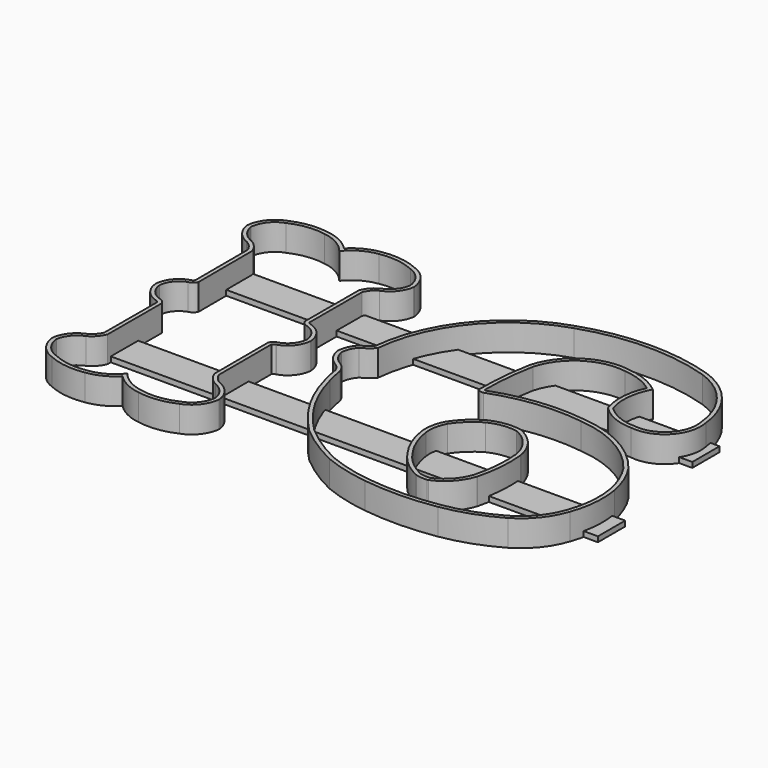
from build123d import *

# Parameters (mm, degrees)
EXTRUDE_DEPTH = 10
BOX_W         = 183
BOX_H         = 13
BOX_DEPTH     = 2
BOX001_W      = 191
BOX001_H      = 13
BOX001_DEPTH  = 2


with BuildPart() as extrude_body:
    # Offset2D → Extrude (new body)
    with BuildSketch(Plane(origin=(-64.42601, 0, 0), x_dir=(0, 1, 0), z_dir=(0, 0, 1))):
        with BuildLine():
            ThreePointArc((34.161662, -21.830487), (36.403056, -23.231111), (38.032569, -25.312044))
            ThreePointArc((38.032569, -25.312044), (41.224227, -29.629801), (46.127096, -31.81877))
            ThreePointArc((46.127096, -31.81877), (46.323021, -31.83785), (46.519757, -31.831109))
            ThreePointArc((46.519757, -31.831109), (52.421393, -29.463028), (56.146422, -24.309266))
            ThreePointArc((56.146422, -24.309266), (58.119453, -17.405653), (57.934261, -10.22802))
            ThreePointArc((57.934261, -10.22802), (56.22852, -4.678993), (52.792202, 0))
            ThreePointArc((52.792202, 0), (56.22852, 4.678993), (57.934261, 10.22802))
            ThreePointArc((57.934261, 10.22802), (58.119453, 17.405653), (56.146422, 24.309266))
            ThreePointArc((56.146422, 24.309266), (52.421393, 29.463028), (46.519757, 31.831109))
            ThreePointArc((46.519757, 31.831109), (46.323021, 31.83785), (46.127096, 31.81877))
            ThreePointArc((46.127096, 31.81877), (41.224227, 29.629801), (38.032569, 25.312044))
            ThreePointArc((38.032569, 25.312044), (36.403056, 23.231111), (34.161662, 21.830487))
            Line((34.161662, 21.830487), (9.106717, 21.770834))
            ThreePointArc((9.106717, 21.770834), (8.585119, 22.296269), (8.302434, 22.980546))
            ThreePointArc((8.302434, 22.980546), (8.281138, 23.072257), (8.254131, 23.162452))
            ThreePointArc((8.254131, 23.162452), (5.150566, 27.581732), (0.132982, 29.578231))
            ThreePointArc((0.132982, 29.578231), (0, 29.584138), (-0.132982, 29.578231))
            ThreePointArc((-0.132982, 29.578231), (-5.150566, 27.581732), (-8.254131, 23.162452))
            ThreePointArc((-8.254131, 23.162452), (-8.281138, 23.072257), (-8.302434, 22.980546))
            ThreePointArc((-8.302434, 22.980546), (-8.585119, 22.296269), (-9.106717, 21.770834))
            Line((-9.106717, 21.770834), (-34.161662, 21.830487))
            ThreePointArc((-34.161662, 21.830487), (-36.403056, 23.231111), (-38.032569, 25.312044))
            ThreePointArc((-38.032569, 25.312044), (-41.224227, 29.629801), (-46.127096, 31.81877))
            ThreePointArc((-46.127096, 31.81877), (-46.323021, 31.83785), (-46.519757, 31.831109))
            ThreePointArc((-46.519757, 31.831109), (-52.421393, 29.463028), (-56.146422, 24.309266))
            ThreePointArc((-56.146422, 24.309266), (-58.119453, 17.405653), (-57.934261, 10.22802))
            ThreePointArc((-57.934261, 10.22802), (-56.22852, 4.678993), (-52.792202, 0))
            ThreePointArc((-52.792202, 0), (-56.22852, -4.678993), (-57.934261, -10.22802))
            ThreePointArc((-57.934261, -10.22802), (-58.119453, -17.405653), (-56.146422, -24.309266))
            ThreePointArc((-56.146422, -24.309266), (-52.421393, -29.463028), (-46.519757, -31.831109))
            ThreePointArc((-46.519757, -31.831109), (-46.323021, -31.83785), (-46.127096, -31.81877))
            ThreePointArc((-46.127096, -31.81877), (-41.224227, -29.629801), (-38.032569, -25.312044))
            ThreePointArc((-38.032569, -25.312044), (-36.403056, -23.231111), (-34.161662, -21.830487))
            Line((-34.161662, -21.830487), (-9.106717, -21.770834))
            ThreePointArc((-9.106717, -21.770834), (-8.585119, -22.296269), (-8.302434, -22.980546))
            ThreePointArc((-8.302434, -22.980546), (-8.281138, -23.072257), (-8.254131, -23.162452))
            ThreePointArc((-8.254131, -23.162452), (-5.150566, -27.581732), (-0.132982, -29.578231))
            ThreePointArc((-0.132982, -29.578231), (0, -29.584138), (0.132982, -29.578231))
            ThreePointArc((0.132982, -29.578231), (5.150566, -27.581732), (8.254131, -23.162452))
            ThreePointArc((8.254131, -23.162452), (8.281138, -23.072257), (8.302434, -22.980546))
            ThreePointArc((8.302434, -22.980546), (8.585119, -22.296269), (9.106717, -21.770833))
            Line((9.106717, -21.770833), (34.161662, -21.830487))
        make_face()
        with BuildLine():
            ThreePointArc((39.397914, -24.685436), (37.326746, -22.045265), (34.44195, -20.33115))
            Line((34.44195, -20.33115), (8.720119, -20.269909))
            ThreePointArc((8.720119, -20.269909), (7.488615, -21.254254), (6.831381, -22.687286))
            ThreePointArc((6.831381, -22.687286), (4.220711, -26.404715), (0, -28.084138))
            ThreePointArc((0, -28.084138), (-4.220711, -26.404715), (-6.831381, -22.687286))
            ThreePointArc((-6.831381, -22.687286), (-7.488615, -21.254255), (-8.720118, -20.269909))
            Line((-8.720118, -20.269909), (-34.44195, -20.33115))
            ThreePointArc((-34.44195, -20.33115), (-37.326746, -22.045265), (-39.397915, -24.685436))
            ThreePointArc((-39.397915, -24.685436), (-42.134283, -28.436695), (-46.370136, -30.33859))
            ThreePointArc((-46.370136, -30.33859), (-51.522855, -28.261449), (-54.75564, -23.74325))
            ThreePointArc((-54.75564, -23.74325), (-56.629485, -17.231752), (-56.451589, -10.458328))
            ThreePointArc((-56.451589, -10.458328), (-54.510608, -4.646316), (-50.515781, 0))
            ThreePointArc((-50.515781, 0), (-54.510608, 4.646316), (-56.451589, 10.458328))
            ThreePointArc((-56.451589, 10.458328), (-56.629485, 17.231751), (-54.75564, 23.74325))
            ThreePointArc((-54.75564, 23.74325), (-51.522855, 28.261449), (-46.370136, 30.33859))
            ThreePointArc((-46.370136, 30.33859), (-42.134283, 28.436695), (-39.397915, 24.685436))
            ThreePointArc((-39.397915, 24.685436), (-37.326746, 22.045265), (-34.44195, 20.33115))
            Line((-34.44195, 20.33115), (-8.720118, 20.269909))
            ThreePointArc((-8.720118, 20.269909), (-7.488615, 21.254255), (-6.831381, 22.687286))
            ThreePointArc((-6.831381, 22.687286), (-4.220712, 26.404715), (0, 28.084138))
            ThreePointArc((0, 28.084138), (4.220712, 26.404715), (6.831381, 22.687286))
            ThreePointArc((6.831381, 22.687286), (7.488615, 21.254255), (8.720118, 20.269909))
            Line((8.720118, 20.269909), (34.44195, 20.33115))
            ThreePointArc((34.44195, 20.33115), (37.326746, 22.045265), (39.397914, 24.685436))
            ThreePointArc((39.397914, 24.685436), (42.134283, 28.436695), (46.370136, 30.33859))
            ThreePointArc((46.370136, 30.33859), (51.522855, 28.261449), (54.75564, 23.74325))
            ThreePointArc((54.75564, 23.74325), (56.629485, 17.231751), (56.451589, 10.458328))
            ThreePointArc((56.451589, 10.458328), (54.510608, 4.646316), (50.515781, 0))
            ThreePointArc((50.515781, 0), (54.510608, -4.646316), (56.451589, -10.458328))
            ThreePointArc((56.451589, -10.458328), (56.629485, -17.231752), (54.75564, -23.74325))
            ThreePointArc((54.75564, -23.74325), (51.522855, -28.261449), (46.370136, -30.33859))
            ThreePointArc((46.370136, -30.33859), (42.134283, -28.436695), (39.397914, -24.685436))
        make_face(mode=Mode.SUBTRACT)
        with BuildLine():
            ThreePointArc((6.526375, -42.443706), (3.537478, -40.534619), (0.080528, -39.7424))
            ThreePointArc((0.080528, -39.7424), (-0.095001, -39.743249), (-0.269229, -39.764596))
            ThreePointArc((-0.269229, -39.764596), (-4.200484, -41.400462), (-7.099038, -44.519629))
            ThreePointArc((-7.099038, -44.519629), (-8.43557, -46.069399), (-10.225983, -47.060626))
            ThreePointArc((-10.225983, -47.060626), (-13.517139, -47.685052), (-16.765923, -48.501766))
            ThreePointArc((-16.765923, -48.501766), (-26.544992, -51.945477), (-35.563328, -57.060059))
            ThreePointArc((-35.563328, -57.060059), (-35.571063, -57.065438), (-35.578765, -57.070867))
            ThreePointArc((-35.578765, -57.070867), (-40.627909, -60.961222), (-45.35538, -65.236704))
            ThreePointArc((-45.35538, -65.236704), (-45.401993, -65.284397), (-45.446441, -65.334114))
            ThreePointArc((-45.446441, -65.334114), (-51.169131, -72.971314), (-55.866812, -81.278407))
            ThreePointArc((-55.866812, -81.278407), (-55.88767, -81.323419), (-55.907028, -81.369096))
            ThreePointArc((-55.907028, -81.369096), (-58.689976, -89.808946), (-60.341257, -98.54102))
            ThreePointArc((-60.341257, -98.54102), (-61.121805, -112.23183), (-59.894454, -125.889836))
            ThreePointArc((-59.894454, -125.889836), (-57.151731, -136.631757), (-52.523878, -146.706198))
            ThreePointArc((-52.523878, -146.706198), (-52.519437, -146.713886), (-52.51495, -146.721546))
            ThreePointArc((-52.51495, -146.721546), (-46.227224, -154.009224), (-37.783548, -158.629838))
            ThreePointArc((-37.783548, -158.629838), (-28.425148, -160.713044), (-18.84488, -160.341731))
            ThreePointArc((-18.84488, -160.341731), (-18.83306, -160.339682), (-18.821258, -160.337539))
            ThreePointArc((-18.821258, -160.337539), (-11.708234, -158.258323), (-5.155393, -154.797323))
            ThreePointArc((-5.155393, -154.797323), (-5.11486, -154.769407), (-5.075265, -154.740178))
            ThreePointArc((-5.075265, -154.740178), (6.254333, -141.580616), (11.310969, -124.968443))
            ThreePointArc((11.310969, -124.968443), (11.577919, -107.367584), (7.530438, -90.236344))
            ThreePointArc((7.530438, -90.236344), (7.520889, -89.959584), (7.552895, -89.684514))
            ThreePointArc((7.552895, -89.684514), (17.944733, -90.146148), (28.243909, -91.605736))
            ThreePointArc((28.243909, -91.605736), (40.200874, -100.293498), (43.256815, -114.754046))
            ThreePointArc((43.256815, -114.754046), (43.249088, -114.808704), (43.243378, -114.86361))
            ThreePointArc((43.243378, -114.86361), (41.830069, -121.10468), (38.775386, -126.727608))
            ThreePointArc((38.775386, -126.727608), (30.540327, -124.480535), (22.053648, -125.398046))
            ThreePointArc((22.053648, -125.398046), (21.724303, -125.543145), (21.438999, -125.762517))
            ThreePointArc((21.438999, -125.762517), (17.32607, -131.811367), (15.863325, -138.978315))
            ThreePointArc((15.863325, -138.978315), (20.084991, -150.94892), (32.297308, -154.409723))
            ThreePointArc((32.297308, -154.409723), (47.689799, -148.172449), (57.309464, -134.633823))
            ThreePointArc((57.309464, -134.633823), (57.316118, -134.614192), (57.322501, -134.59447))
            ThreePointArc((57.322501, -134.59447), (61.006872, -109.810195), (56.780734, -85.112531))
            ThreePointArc((56.780734, -85.112531), (38.915528, -58.787852), (9.542034, -46.56688))
            ThreePointArc((9.542034, -46.56688), (8.033491, -44.864283), (6.870556, -42.909257))
            ThreePointArc((6.870556, -42.909257), (6.72114, -42.659718), (6.526375, -42.443706))
        make_face()
        with BuildLine():
            ThreePointArc((0, -41.240237), (2.957715, -41.918048), (5.514971, -43.551434))
            ThreePointArc((5.514971, -43.551434), (6.977576, -45.957541), (8.904615, -48.010609))
            ThreePointArc((8.904615, -48.010609), (37.785771, -59.802647), (55.3554, -85.580185))
            ThreePointArc((55.3554, -85.580185), (59.506872, -109.818394), (55.892228, -134.142453))
            ThreePointArc((55.892228, -134.142453), (46.72935, -147.019587), (32.06971, -152.924998))
            ThreePointArc((32.06971, -152.924998), (21.102119, -149.846355), (17.363273, -139.085912))
            ThreePointArc((17.363273, -139.085912), (18.688263, -132.441672), (22.489372, -126.833366))
            ThreePointArc((22.489372, -126.833366), (31.023674, -126.032255), (39.190359, -128.636357))
            ThreePointArc((39.190359, -128.636357), (42.998519, -122.234358), (44.737935, -114.991286))
            ThreePointArc((44.737935, -114.991286), (41.444393, -99.454234), (28.578199, -90.142497))
            ThreePointArc((28.578199, -90.142497), (17.62463, -88.610946), (6.572424, -88.19257))
            ThreePointArc((6.572424, -88.19257), (6.089355, -89.35398), (6.069544, -90.61169))
            ThreePointArc((6.069544, -90.61169), (10.080296, -107.471052), (9.82007, -124.798964))
            ThreePointArc((9.82007, -124.798964), (4.949402, -140.840662), (-5.985813, -153.548162))
            ThreePointArc((-5.985813, -153.548162), (-12.271791, -156.868215), (-19.09514, -158.862755))
            ThreePointArc((-19.09514, -158.862755), (-28.299977, -159.218241), (-37.290762, -157.21295))
            ThreePointArc((-37.290762, -157.21295), (-45.276603, -152.84887), (-51.222842, -145.95967))
            ThreePointArc((-51.222842, -145.95967), (-55.738154, -136.129959), (-58.41392, -125.648951))
            ThreePointArc((-58.41392, -125.648951), (-59.622042, -112.205108), (-58.853068, -98.729012))
            ThreePointArc((-58.853068, -98.729012), (-57.238473, -90.187298), (-54.516447, -81.931489))
            ThreePointArc((-54.516447, -81.931489), (-49.913506, -73.791926), (-44.306226, -66.308747))
            ThreePointArc((-44.306226, -66.308747), (-39.666336, -62.112473), (-34.710733, -58.29419))
            ThreePointArc((-34.710733, -58.29419), (-25.914654, -53.306642), (-16.376197, -49.950385))
            ThreePointArc((-16.376197, -49.950385), (-13.145107, -49.139081), (-9.871154, -48.52313))
            ThreePointArc((-9.871154, -48.52313), (-7.542924, -47.276424), (-5.808735, -45.28456))
            ThreePointArc((-5.808735, -45.28456), (-3.343564, -42.631595), (0, -41.240237))
        make_face(mode=Mode.SUBTRACT)
        with BuildLine():
            ThreePointArc((-18.479693, -124.398464), (-10.753423, -120.917714), (-5.651378, -114.151621))
            ThreePointArc((-5.651378, -114.151621), (-5.593785, -113.987424), (-5.555595, -113.817663))
            ThreePointArc((-5.555595, -113.817663), (-5.495559, -107.925187), (-7.214061, -102.288555))
            ThreePointArc((-7.214061, -102.288555), (-7.236707, -102.243507), (-7.260853, -102.199246))
            ThreePointArc((-7.260853, -102.199246), (-10.831115, -97.349783), (-15.439439, -93.473263))
            ThreePointArc((-15.439439, -93.473263), (-15.496097, -93.437845), (-15.554275, -93.404986))
            ThreePointArc((-15.554275, -93.404986), (-19.996814, -91.827901), (-24.707277, -91.6411))
            ThreePointArc((-24.707277, -91.6411), (-24.727043, -91.643438), (-24.746776, -91.646038))
            ThreePointArc((-24.746776, -91.646038), (-31.934464, -93.56537), (-38.436202, -97.181182))
            ThreePointArc((-38.436202, -97.181182), (-43.866958, -101.867484), (-47.797591, -107.867873))
            ThreePointArc((-47.797591, -107.867873), (-47.85046, -107.994823), (-47.89148, -108.126081))
            ThreePointArc((-47.89148, -108.126081), (-48.27387, -110.307233), (-48.288423, -112.521604))
            ThreePointArc((-48.288423, -112.521604), (-48.250428, -112.760584), (-48.174501, -112.990345))
            ThreePointArc((-48.174501, -112.990345), (-43.856374, -119.107274), (-37.382999, -122.870048))
            ThreePointArc((-37.382999, -122.870048), (-37.34513, -122.881702), (-37.306966, -122.892352))
            ThreePointArc((-37.306966, -122.892352), (-28.017515, -124.487114), (-18.592453, -124.413737))
            ThreePointArc((-18.592453, -124.413737), (-18.535928, -124.40717), (-18.479693, -124.398464))
        make_face()
        with BuildLine():
            ThreePointArc((-7.035652, -113.573879), (-11.689584, -119.745706), (-18.737257, -122.920742))
            ThreePointArc((-18.737257, -122.920742), (-27.895974, -122.992046), (-36.922913, -121.442351))
            ThreePointArc((-36.922913, -121.442351), (-42.843484, -118.000904), (-46.792858, -112.40634))
            ThreePointArc((-46.792858, -112.40634), (-46.779949, -110.442144), (-46.44076, -108.507413))
            ThreePointArc((-46.44076, -108.507413), (-42.724247, -102.83945), (-37.586884, -98.41839))
            ThreePointArc((-37.586884, -98.41839), (-31.392517, -94.964227), (-24.540961, -93.131851))
            ThreePointArc((-24.540961, -93.131851), (-20.280659, -93.3008), (-16.262675, -94.727169))
            ThreePointArc((-16.262675, -94.727169), (-11.925547, -98.37556), (-8.565392, -102.939636))
            ThreePointArc((-8.565392, -102.939636), (-6.980276, -108.138765), (-7.035652, -113.573879))
        make_face(mode=Mode.SUBTRACT)
    extrude(amount=EXTRUDE_DEPTH)


with BuildPart() as cube:
    # Box → Box (new body)
    with BuildSketch(Plane(origin=(-90, 22, 0), x_dir=(1, 0, 0), z_dir=(0, 0, 1))):
        with Locations((91.5, 6.5)):
            Rectangle(BOX_W, BOX_H)
    extrude(amount=BOX_DEPTH)


with BuildPart() as cube001:
    # Box001 → Box001 (new body)
    with BuildSketch(Plane(origin=(-90, -33, 0), x_dir=(1, 0, 0), z_dir=(0, 0, 1))):
        with Locations((95.5, 6.5)):
            Rectangle(BOX001_W, BOX001_H)
    extrude(amount=BOX001_DEPTH)


solid = Compound([extrude_body.part, cube.part, cube001.part])
